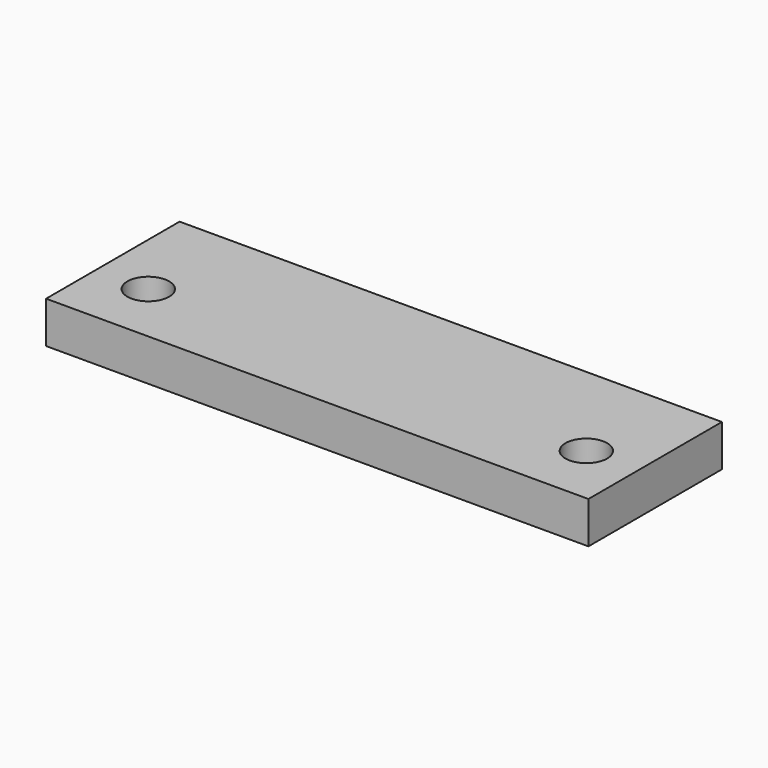
from build123d import *

# Parameters (mm, degrees)
F0_W     = 165.1
F0_H     = 19.05
F0_R     = 12.7
F1_DEPTH = 25.4


with BuildPart() as f1:
    # F0 (on Top) → F1 (new body)
    with BuildSketch(Plane.XY):
        with Locations((158.11099, 53.975)):
            Rectangle(F0_W, F0_H)
        Polygon((75.56099, 44.45), (-89.53901, 44.45), (-89.53901, 0), (-89.53901, -38.1), (-57.78901, -38.1), (75.56099, -38.1), align=None)
        with Locations((-57.78901, 0)):
            Circle(F0_R, mode=Mode.SUBTRACT)
        Polygon((240.66099, 44.45), (75.56099, 44.45), (75.56099, -38.1), (208.91099, -38.1), (240.66099, -38.1), (240.66099, 0), align=None)
        with Locations((208.91099, 0)):
            Circle(F0_R, mode=Mode.SUBTRACT)
        with Locations((-6.98901, 53.975)):
            Rectangle(F0_W, F0_H)
    extrude(amount=F1_DEPTH)


solid = f1.part
